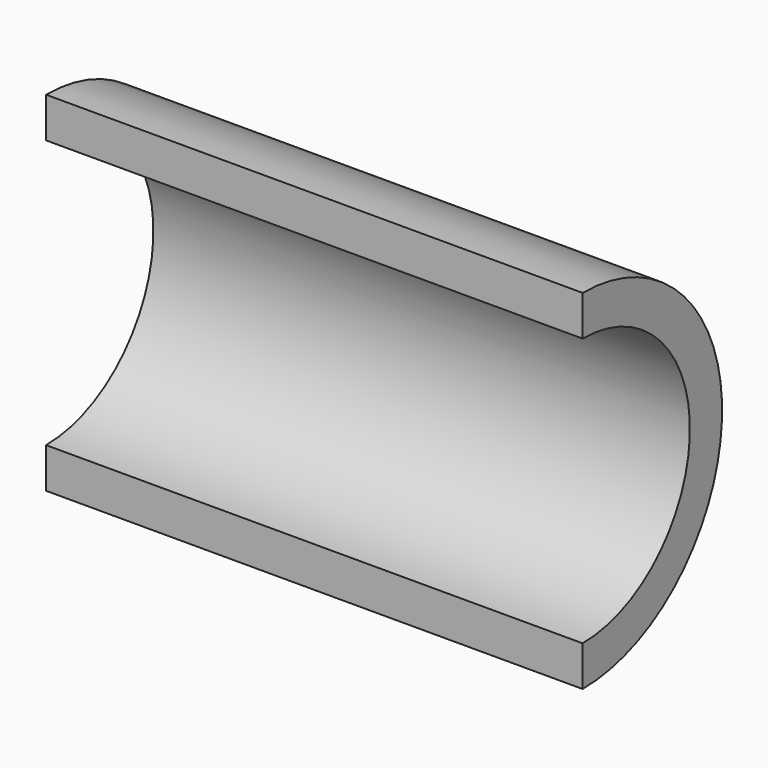
from build123d import *

# Parameters (mm, degrees)
F0_W          = 20
F0_H          = 1.5
F2_W          = 22.9575727135
F2_H          = 8.5180262104
F3_DEPTH      = 6.501
F3_DEPTH_BACK = 6.501


with BuildPart() as f1:
    # F0 (on Front) → F1 (revolve)
    with BuildSketch(Plane.XZ):
        with Locations((10, 5.75)):
            Rectangle(F0_W, F0_H)
    revolve(axis=Axis((9.7389571611, 0, 0), (1, 0, 0)))

    # F2 (on Top) → F3 (cut, two sides)
    with BuildSketch(Plane.XY) as f3_sk:
        with Locations((11.4787863567, -4.2590131052)):
            Rectangle(F2_W, F2_H)
    extrude(amount=-F3_DEPTH, mode=Mode.SUBTRACT)
    extrude(f3_sk.sketch, amount=F3_DEPTH_BACK, mode=Mode.SUBTRACT)


solid = f1.part
